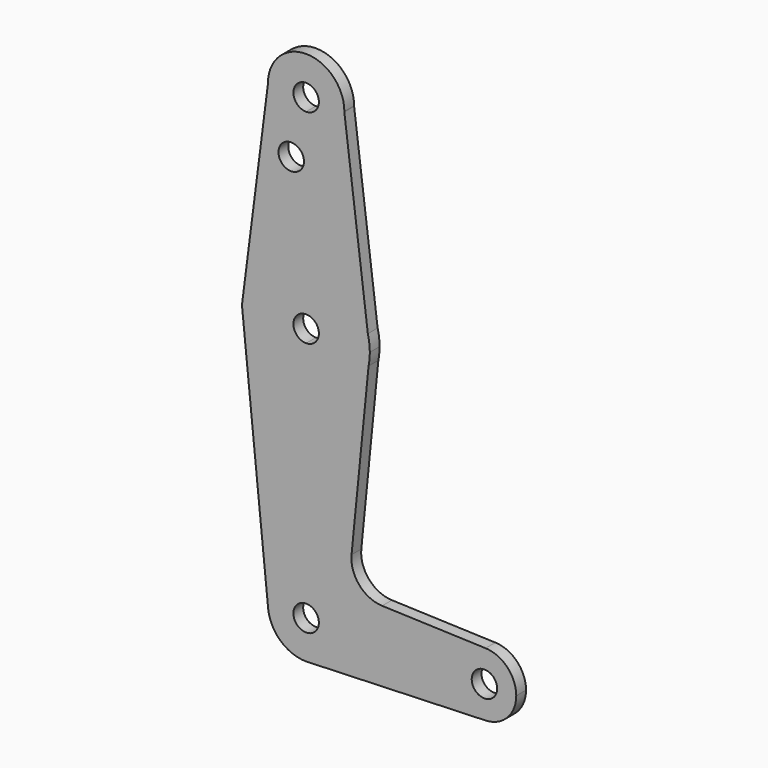
from build123d import *

# Parameters (mm, degrees)
F0_R     = 3.175
F1_DEPTH = 3.048


with BuildPart() as f1:
    # F0 (on Front) → F1 (new body)
    with BuildSketch(Plane.XZ):
        with BuildLine():
            ThreePointArc((-9.5239509894, 50.6586403485), (-6.6850270874, 44.0150137922), (0, 41.275))
            ThreePointArc((0, 41.275), (6.6878756472, 44.0178215648), (9.52406635, 50.6666389864))
            ThreePointArc((9.52406635, 50.6666389864), (9.5247665847, 50.7333178591), (9.525, 50.8))
            ThreePointArc((9.525, 50.8), (-0.0706817719, 60.3247377437), (-9.5239509894, 50.6586403485))
        make_face()
        with BuildLine():
            ThreePointArc((3.175, 50.8), (2.2450640303, 48.5549359697), (0, 47.625))
            ThreePointArc((0, 47.625), (-2.2450640303, 53.0450640303), (3.175, 50.8))
        make_face(mode=Mode.SUBTRACT)
        with BuildLine():
            ThreePointArc((9.52406635, 50.6666389864), (6.6878756472, 44.0178215648), (0, 41.275))
            Line((0, 41.275), (0, 15.875))
            ThreePointArc((0, 15.875), (9.7420200359, 12.5342997658), (15.3838613486, 3.9182183458))
            Line((15.3838613486, 3.9182183458), (9.52406635, 50.6666389864))
        make_face()
        with BuildLine():
            Line((0, 15.875), (0, 41.275))
            ThreePointArc((0, 41.275), (-6.6850270874, 44.0150137922), (-9.5239509894, 50.6586403485))
            Line((-9.5239509894, 50.6586403485), (-15.7466808555, 2.0143651689))
            ThreePointArc((-15.7466808555, 2.0143651689), (-10.4889841725, 11.9162425298), (0, 15.875))
        make_face()
        with Locations((-3.7243994538, 36.5252)):
            Circle(F0_R, mode=Mode.SUBTRACT)
        with BuildLine():
            ThreePointArc((15.3838613486, 3.9182183458), (9.7420200359, 12.5342997658), (0, 15.875))
            Line((0, 15.875), (0, 3.175))
            ThreePointArc((0, 3.175), (2.2450640303, 2.2450640303), (3.175, 0))
            ThreePointArc((3.175, 0), (2.2450640303, -2.2450640303), (0, -3.175))
            Line((0, -3.175), (0, -15.875))
            ThreePointArc((0, -15.875), (10.0616155323, -12.27923116), (15.5652161214, -3.1208447723))
            Line((15.5652161214, -3.1208447723), (15.875, 0))
            Line((15.875, 0), (15.3838613486, 3.9182183458))
        make_face()
        with BuildLine():
            Line((0, 3.175), (0, 15.875))
            ThreePointArc((0, 15.875), (-10.4889841725, 11.9162425298), (-15.7466808555, 2.0143651689))
            ThreePointArc((-15.7466808555, 2.0143651689), (-11.9162425298, -10.4889841725), (0, -15.875))
            Line((0, -15.875), (0, -3.175))
            ThreePointArc((0, -3.175), (-3.175, 0), (0, 3.175))
        make_face()
        with BuildLine():
            ThreePointArc((15.875, 0), (15.7517367917, 1.974439932), (15.3838613486, 3.9182183458))
            Line((15.3838613486, 3.9182183458), (15.875, 0))
        make_face()
        with BuildLine():
            ThreePointArc((0, -15.875), (-11.9162425298, -10.4889841725), (-15.7466808555, 2.0143651689))
            Line((-15.7466808555, 2.0143651689), (-16.0043648328, 0))
            Line((-16.0043648328, 0), (-9.4765301122, -64.4596885081))
            ThreePointArc((-9.4765301122, -64.4596885081), (-7.066351889, -57.1131153149), (0, -53.975))
            Line((0, -53.975), (0, -15.875))
        make_face()
        with BuildLine():
            ThreePointArc((15.5652161214, -3.1208447723), (15.7973641936, -1.5680910484), (15.875, 0))
            Line((15.875, 0), (15.5652161214, -3.1208447723))
        make_face()
        with BuildLine():
            ThreePointArc((15.5652161214, -3.1208447723), (10.0616155323, -12.27923116), (0, -15.875))
            Line((0, -15.875), (0, -53.975))
            ThreePointArc((0, -53.975), (6.7351920908, -56.7648079092), (9.525, -63.5))
            Line((9.525, -63.5), (36.5125, -63.5))
            ThreePointArc((36.5125, -63.5), (38.9380895153, -57.7883672161), (44.7324052746, -55.5675253854))
            Line((44.7324052746, -55.5675253854), (18.9454118634, -54.6494785831))
            ThreePointArc((18.9454118634, -54.6494785831), (13.2415005535, -51.9354002106), (11.3169489983, -45.9190120121))
            Line((11.3169489983, -45.9190120121), (15.5652161214, -3.1208447723))
        make_face()
        with BuildLine():
            Line((0, -60.325), (0, -53.975))
            ThreePointArc((0, -53.975), (-7.066351889, -57.1131153149), (-9.4765301122, -64.4596885081))
            ThreePointArc((-9.4765301122, -64.4596885081), (-6.3868846851, -70.566351889), (0, -73.025))
            Line((0, -73.025), (0.6773435479, -73.000885786))
            ThreePointArc((0.6773435479, -73.000885786), (6.9705567315, -69.9912990883), (9.525, -63.5))
            Line((9.525, -63.5), (3.175, -63.5))
            ThreePointArc((3.175, -63.5), (-2.2450640303, -65.7450640303), (0, -60.325))
        make_face()
        with BuildLine():
            Line((36.5125, -63.5), (9.525, -63.5))
            ThreePointArc((9.525, -63.5), (6.9705567315, -69.9912990883), (0.6773435479, -73.000885786))
            Line((0.6773435479, -73.000885786), (44.7324052746, -71.4324746146))
            ThreePointArc((44.7324052746, -71.4324746146), (38.9380895153, -69.2116327839), (36.5125, -63.5))
        make_face()
        with BuildLine():
            Line((0.6773435479, -73.000885786), (0, -73.025))
            ThreePointArc((0, -73.025), (0.3388863295, -73.0189695375), (0.6773435479, -73.000885786))
        make_face()
        with BuildLine():
            ThreePointArc((44.7324052746, -55.5675253854), (38.9380895153, -57.7883672161), (36.5125, -63.5))
            ThreePointArc((36.5125, -63.5), (38.9380895153, -69.2116327839), (44.7324052746, -71.4324746146))
            ThreePointArc((44.7324052746, -71.4324746146), (50.1616327839, -69.0119104847), (52.3875, -63.5))
            ThreePointArc((52.3875, -63.5), (50.1616327839, -57.9880895153), (44.7324052746, -55.5675253854))
        make_face()
        with BuildLine():
            ThreePointArc((47.625, -63.5), (44.45, -66.675), (41.275, -63.5))
            ThreePointArc((41.275, -63.5), (44.45, -60.325), (47.625, -63.5))
        make_face(mode=Mode.SUBTRACT)
        with BuildLine():
            ThreePointArc((9.525, -63.5), (6.7351920908, -56.7648079092), (0, -53.975))
            Line((0, -53.975), (0, -60.325))
            ThreePointArc((0, -60.325), (2.2450640303, -61.2549359697), (3.175, -63.5))
            Line((3.175, -63.5), (9.525, -63.5))
        make_face()
    extrude(amount=F1_DEPTH)


solid = f1.part
